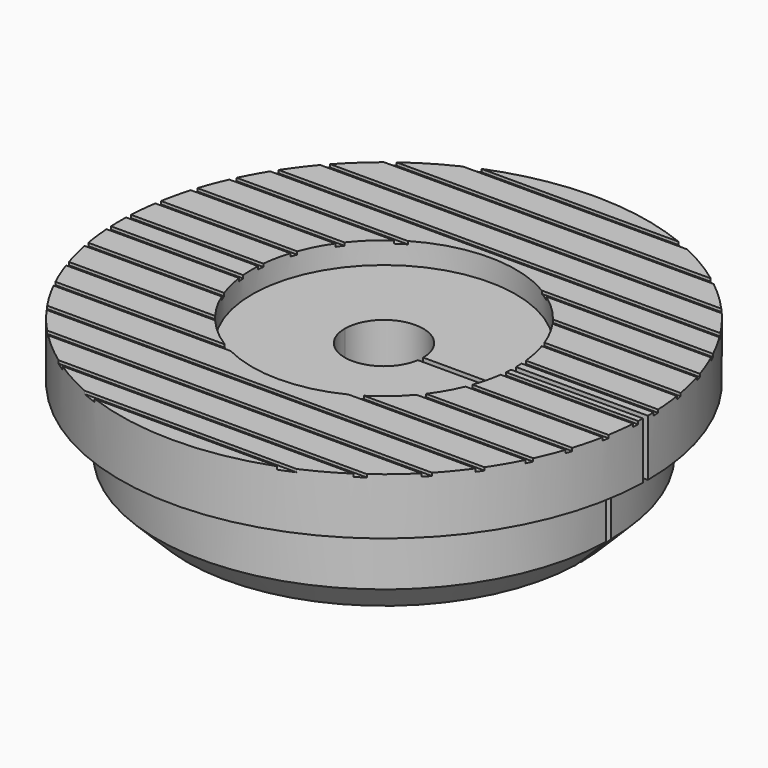
from build123d import *

# Parameters (mm, degrees)
F3_D           = 13.208
F3_CBORE_D     = 44.45
F3_CBORE_DEPTH = 3.683
F2_W           = 44.336462139
F2_H           = 1.016
F4_DEPTH       = 38.1
F5_SIZE        = 5.08
F6_W           = 101.6
F6_H           = 1
F7_DEPTH       = 0.5


with BuildPart() as f1:
    # F0 (on Front) → F1 (revolve)
    with BuildSketch(Plane.XZ):
        Polygon((-38.227, 0), (0, 0), (0, 25.4), (-44.45, 25.4), (-44.45, 15.875), (-38.227, 15.875), align=None)
    revolve(axis=Axis((0, 0, 19.0648827702), (0, 0, 1)))

    # F3 (through all)
    with Locations(Plane.XY.offset(25.4)):
        with Locations((0, 0)):
            CounterBoreHole(F3_D / 2, F3_CBORE_D / 2, F3_CBORE_DEPTH)

    # F2 (on face) → F4 (cut)
    with BuildSketch(Plane.XY.offset(25.4)):
        with Locations((22.1682310695, -0.508)):
            Rectangle(F2_W, F2_H)
        with BuildLine():
            Line((44.336462139, 0), (44.336462139, -1.016))
            Line((44.336462139, -1.016), (44.4383870544, -1.016))
            ThreePointArc((44.4383870544, -1.016), (44.4470966688, -0.5080331831), (44.45, 0))
            Line((44.45, 0), (44.336462139, 0))
        make_face()
        with BuildLine():
            ThreePointArc((44.45, 0), (44.4470966688, -0.5080331831), (44.4383870544, -1.016))
            Line((44.4383870544, -1.016), (50.8, -1.016))
            Line((50.8, -1.016), (50.8, 0))
            Line((50.8, 0), (44.45, 0))
        make_face()
    extrude(amount=-F4_DEPTH, mode=Mode.SUBTRACT)

    # F5
    f5_edges = [f1.edges().sort_by_distance(p)[0] for p in [
        (-0.508045, -38.223624, 0),
    ]]
    chamfer(f5_edges, length=F5_SIZE)

    # F6 (on face) → F7 (cut)
    with BuildSketch(Plane.XY.offset(25.4)):
        with Locations((0, -25.3804288805)):
            Rectangle(F6_W, F6_H)
        with Locations((0, -30.9059806168)):
            Rectangle(F6_W, F6_H)
        with Locations((2.5503417128, -36.5805682886)):
            Rectangle(F6_W, F6_H)
        with Locations((0.3315322974, 44.9394750249)):
            Rectangle(F6_W, F6_H)
        with Locations((0.3083095216, 40.7329852533)):
            Rectangle(F6_W, F6_H)
        with Locations((0.3083095216, 35.207433517)):
            Rectangle(F6_W, F6_H)
        with Locations((0.6398418191, 29.3503458452)):
            Rectangle(F6_W, F6_H)
        with Locations((0.6398418191, 23.8247941089)):
            Rectangle(F6_W, F6_H)
        with Locations((0.5792960728, 18.6377671853)):
            Rectangle(F6_W, F6_H)
        with Locations((0.5792960728, 13.112215449)):
            Rectangle(F6_W, F6_H)
        with Locations((0.9108283703, 7.2551277772)):
            Rectangle(F6_W, F6_H)
        with Locations((0.9108283703, 1.7295760409)):
            Rectangle(F6_W, F6_H)
        with Locations((0.8876055945, -2.4769137307)):
            Rectangle(F6_W, F6_H)
        with Locations((0.8876055945, -8.0024654671)):
            Rectangle(F6_W, F6_H)
        with Locations((1.2191378919, -13.8595531388)):
            Rectangle(F6_W, F6_H)
        with Locations((1.2191378919, -19.3851048752)):
            Rectangle(F6_W, F6_H)
        with Locations((1.0724808089, -41.2088056254)):
            Rectangle(F6_W, F6_H)
    extrude(amount=-F7_DEPTH, mode=Mode.SUBTRACT)


solid = f1.part
